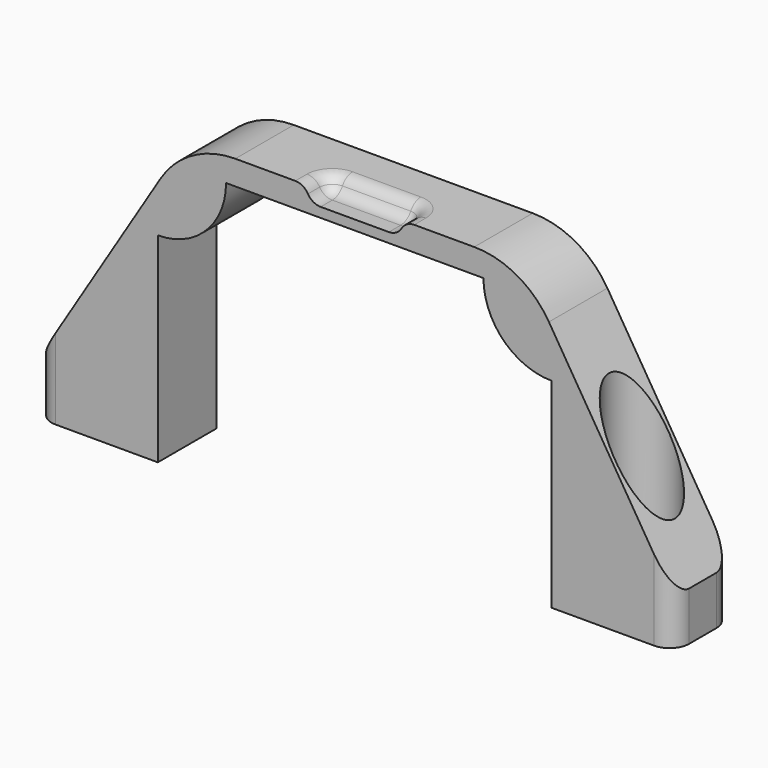
from build123d import *

# Parameters (mm, degrees)
PAD_DEPTH       = 15
SKETCH001_R     = 4.3
POCKET_DEPTH    = 60.001
SKETCH002_R     = 6.75
POCKET001_DEPTH = 55.001
FILLET_R        = 4
FILLET001_R     = 18
POCKET002_DEPTH = 3
GROOVE_ANGLE    = 90
FILLET002_R     = 3


with BuildPart() as part:
    # Sketch → Pad (new body)
    with BuildSketch(Plane.XZ):
        with BuildLine():
            ThreePointArc((-40.4, 46.4), (-30.500505, 50.500505), (-26.4, 60.4))
            Line((-26.4, 60.4), (26.4, 60.4))
            ThreePointArc((26.4, 60.4), (30.500505, 50.500505), (40.4, 46.4))
            Line((40.4, 5.4), (40.4, 46.4))
            Line((65.4, 5.4), (40.4, 5.4))
            Line((65.4, 15.4), (65.4, 5.4))
            Line((34.553176, 65.4), (65.4, 15.4))
            Line((-34.553176, 65.4), (34.553176, 65.4))
            Line((-65.4, 15.4), (-34.553176, 65.4))
            Line((-65.4, 5.4), (-65.4, 15.4))
            Line((-40.4, 5.4), (-65.4, 5.4))
            Line((-40.4, 46.4), (-40.4, 5.4))
        make_face()
    extrude(amount=PAD_DEPTH)

    # Sketch001 (on Face11 of Pad) → Pocket (cut, through all)
    with BuildSketch(Plane(origin=(0, 0, 5.4), x_dir=(1, 0, 0), z_dir=(0, 0, -1))):
        with Locations((-52.9, 7.5)):
            Circle(SKETCH001_R)
        with Locations((52.9, 7.5)):
            Circle(SKETCH001_R)
    extrude(amount=-POCKET_DEPTH, mode=Mode.SUBTRACT)

    # Sketch002 (on Face6 of Pocket) → Pocket001 (cut, through all)
    with BuildSketch(Plane(origin=(0, 0, 10.4), x_dir=(1, 0, 0), z_dir=(0, 0, -1))):
        with Locations((-52.9, 7.5)):
            Circle(SKETCH002_R)
        with Locations((52.9, 7.5)):
            Circle(SKETCH002_R)
    extrude(amount=-POCKET001_DEPTH, mode=Mode.SUBTRACT)

    # Fillet
    fillet_edges = [part.edges().sort_by_distance(p)[0] for p in [
        (-65.4, -15, 10.4),
        (-65.4, 0, 10.4),
        (65.4, -15, 10.4),
        (65.4, 0, 10.4),
    ]]
    fillet(fillet_edges, radius=FILLET_R)

    # Fillet001
    fillet001_edges = [part.edges().sort_by_distance(p)[0] for p in [
        (-34.553176, -7.5, 65.4),
        (34.553176, -7.5, 65.4),
    ]]
    fillet(fillet001_edges, radius=FILLET001_R)

    # Sketch003 (on Face16 of Fillet001) → Pocket002 (cut)
    with BuildSketch(Plane.XZ.offset(15)):
        with BuildLine():
            ThreePointArc((-10, 65.4), (-9.12132, 63.27868), (-7, 62.4))
            Line((-7, 62.4), (7, 62.4))
            ThreePointArc((7, 62.4), (9.12132, 63.27868), (10, 65.4))
            Line((-10, 65.4), (10, 65.4))
        make_face()
    extrude(amount=-POCKET002_DEPTH, mode=Mode.SUBTRACT)

    # Pocket002 Face21 → Groove (revolve, cut)
    with BuildSketch(Plane(origin=(0, -12, 63.957106), x_dir=(-1, 0, 0), z_dir=(0, -1, 0))):
        with BuildLine():
            ThreePointArc((10, -1.442894), (9.12132, 0.678426), (7, 1.557106))
            Line((7, 1.557106), (-7, 1.557106))
            ThreePointArc((-7, 1.557106), (-9.12132, 0.678426), (-10, -1.442894))
            Line((-10, -1.442894), (10, -1.442894))
        make_face()
    revolve(axis=Axis((0, -12, 65.4), (1, 0, 0)), revolution_arc=GROOVE_ANGLE, mode=Mode.SUBTRACT)

    # Fillet002
    fillet002_edges = [part.edges().sort_by_distance(p)[0] for p in [
        (0, -9, 65.4),
    ]]
    fillet(fillet002_edges, radius=FILLET002_R)


solid = part.part
